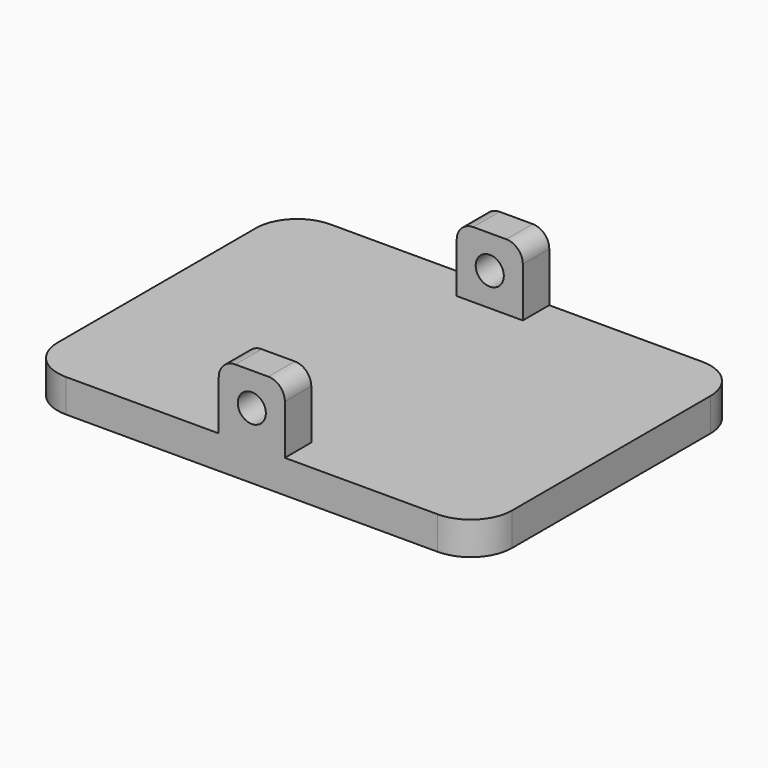
from build123d import *

# Parameters (mm, degrees)
MIRROREDSKETCH_W = 8
MIRROREDSKETCH_H = 4
PAD002_DEPTH     = 8
SKETCH_W         = 55
SKETCH_H         = 40
PAD_DEPTH        = 4
SKETCH001_W      = 8
SKETCH001_H      = 4
PAD001_DEPTH     = 8
SKETCH002_R      = 1.7
POCKET_DEPTH     = 40.001
FILLET_R         = 2
FILLET001_R      = 5


with BuildPart() as pad002:
    # MirroredSketch → Pad002 (new body)
    with BuildSketch(Plane.XY.offset(4)):
        with Locations((0, -18)):
            Rectangle(MIRROREDSKETCH_W, MIRROREDSKETCH_H)
    extrude(amount=PAD002_DEPTH)


with BuildPart() as fillet001:
    # Sketch → Pad (new body)
    with BuildSketch(Plane.XY):
        Rectangle(SKETCH_W, SKETCH_H)
    extrude(amount=PAD_DEPTH)

    # Sketch001 → Pad001 (new body)
    with BuildSketch(Plane.XY.offset(4)):
        with Locations((0, 18)):
            Rectangle(SKETCH001_W, SKETCH001_H)
    extrude(amount=PAD001_DEPTH)

    # Fusion: union Pad002
    add(pad002.part)

    # Sketch002 → Pocket (cut, through all)
    with BuildSketch(Plane.XZ.offset(20)):
        with Locations((0, 8)):
            Circle(SKETCH002_R)
    extrude(amount=-POCKET_DEPTH, mode=Mode.SUBTRACT)

    # Fillet
    fillet_edges = [fillet001.edges().sort_by_distance(p)[0] for p in [
        (4, -18, 12),
        (-4, -18, 12),
        (4, 18, 12),
        (-4, 18, 12),
    ]]
    fillet(fillet_edges, radius=FILLET_R)

    # Fillet001
    fillet001_edges = [fillet001.edges().sort_by_distance(p)[0] for p in [
        (27.5, 20, 2),
        (-27.5, 20, 2),
        (27.5, -20, 2),
        (-27.5, -20, 2),
    ]]
    fillet(fillet001_edges, radius=FILLET001_R)


solid = fillet001.part
